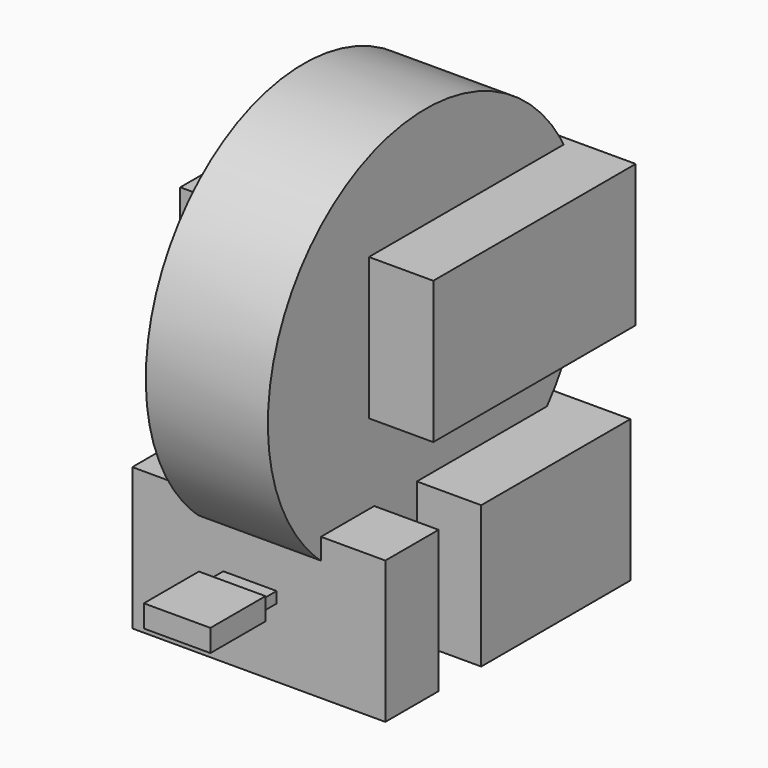
from build123d import *

# Parameters (mm, degrees)
BOX_W                  = 114
BOX_H                  = 84
BOX_DEPTH              = 64
BOX001_W               = 114
BOX001_H               = 114
BOX001_DEPTH           = 64
BOX003_W               = 42
BOX003_H               = 24
BOX003_DEPTH           = 5
BOX002_W               = 31
BOX002_H               = 30
BOX002_DEPTH           = 10
FUSION_PLACEMENT_ANGLE = 270
CYLINDER_R             = 88.9
CYLINDER_DEPTH         = 55
BOX004_W               = 114
BOX004_H               = 30
BOX004_DEPTH           = 64


with BuildPart() as top:
    # Box → Box (new body)
    with BuildSketch(Plane(origin=(0, 27, 0), x_dir=(1, 0, 0), z_dir=(0, 0, 1))):
        with Locations((57, 42)):
            Rectangle(BOX_W, BOX_H)
    extrude(amount=BOX_DEPTH)


with BuildPart() as bottom:
    # Box001 → Box001 (new body)
    with BuildSketch(Plane.XY.offset(100)):
        with Locations((57, 57)):
            Rectangle(BOX001_W, BOX001_H)
    extrude(amount=BOX001_DEPTH)


with BuildPart() as cube001:
    # Box003 → Box003 (new body)
    with BuildSketch(Plane(origin=(-42, 3, 2), x_dir=(1, 0, 0), z_dir=(0, 0, 1))):
        with Locations((21, 12)):
            Rectangle(BOX003_W, BOX003_H)
    extrude(amount=BOX003_DEPTH)


with BuildPart() as fusion:
    # Box002 → Box002 (new body)
    with BuildSketch(Plane.XY):
        with Locations((15.5, 15)):
            Rectangle(BOX002_W, BOX002_H)
    extrude(amount=BOX002_DEPTH)

    # Fusion: union Cube001
    add(cube001.part)


with BuildPart() as fusion_1:
    # Fusion placement: moved
    add(fusion.part.moved(Location((38, -37, 29))).rotate(Axis((38, -37, 29), (0, 0, 1)), FUSION_PLACEMENT_ANGLE))


with BuildPart() as cylinder:
    # Cylinder → Cylinder (new body)
    with BuildSketch(Plane(origin=(30, 32, 120.9), x_dir=(0, 0, -1), z_dir=(1, 0, 0))):
        Circle(CYLINDER_R)
    extrude(amount=CYLINDER_DEPTH)


with BuildPart() as top001:
    # Box004 → Box004 (new body)
    with BuildSketch(Plane(origin=(0, -27, 0), x_dir=(1, 0, 0), z_dir=(0, 0, 1))):
        with Locations((57, 15)):
            Rectangle(BOX004_W, BOX004_H)
    extrude(amount=BOX004_DEPTH)


solid = Compound([top.part, bottom.part, fusion_1.part, cylinder.part, top001.part])
